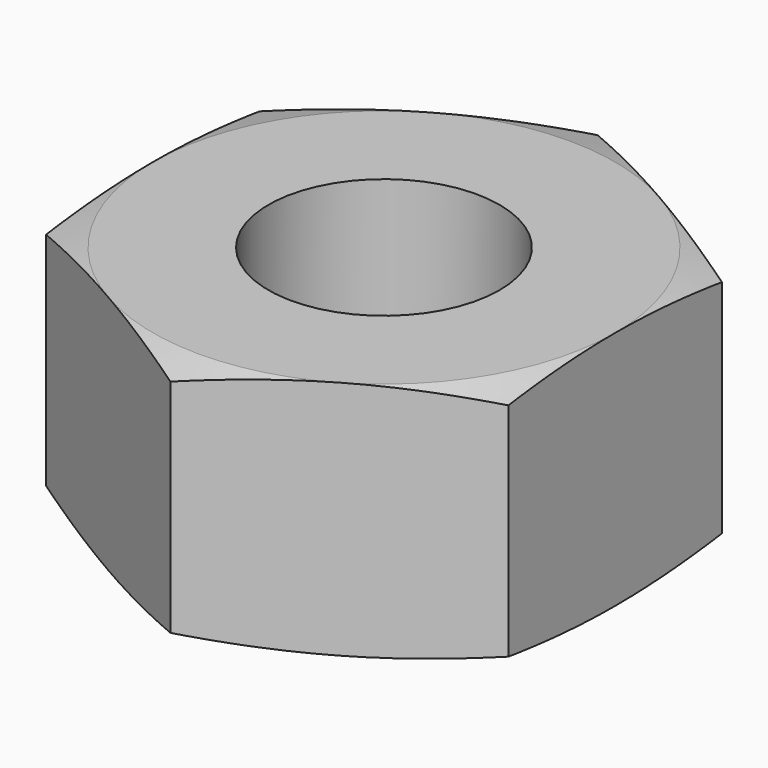
from build123d import *

# Parameters (mm, degrees)
F0_R     = 2.5
F1_DEPTH = 5.2


with BuildPart() as f1:
    # F0 (on Top) → F1 (new body)
    with BuildSketch(Plane.XY):
        Polygon((5, -2.8867513459), (5, 2.8867513459), (0, 5.7735026919), (-5, 2.8867513459), (-5, -2.8867513459), (0, -5.7735026919), align=None)
        Circle(F0_R, mode=Mode.SUBTRACT)
    extrude(amount=F1_DEPTH)

    # F5 (on 3pt) → F6 (revolve, cut)
    with BuildSketch(Plane(origin=(0, 0, 0), x_dir=(0.8660254038, 0.5, 0), z_dir=(0.5, -0.8660254038, 0))):
        Polygon((-5, 5.2), (-2.6674682453, 5.825), (-10.4050725523, 5.825), (-10.4050725523, 3.7517151746), align=None)
        Polygon((-10.4050725523, -0.625), (-2.6674682453, -0.625), (-10.4050725523, 1.4482848254), align=None)
    revolve(axis=Axis((0, 0, 4.2626714858), (0, 0, 1)), mode=Mode.SUBTRACT)


solid = f1.part
